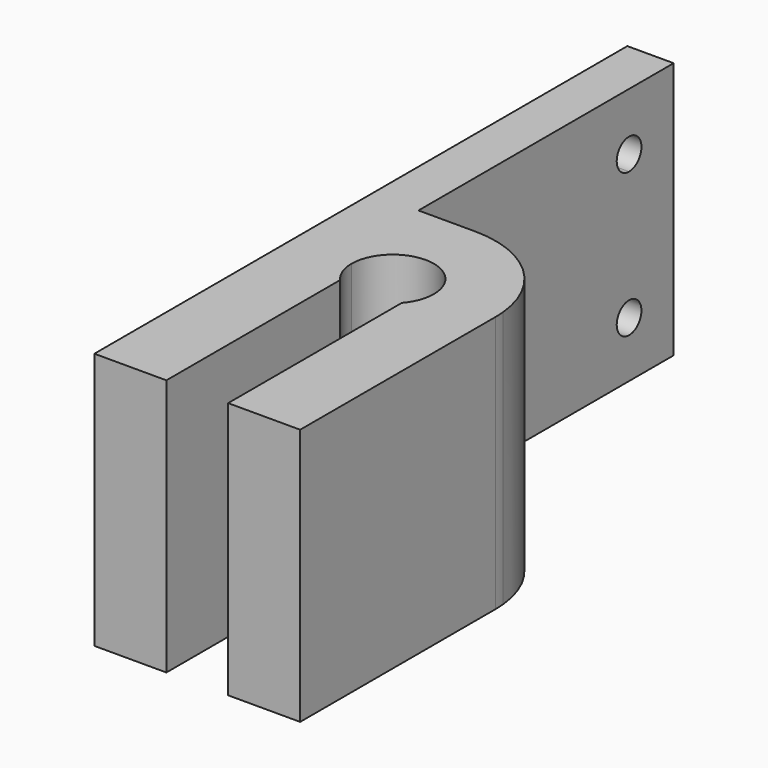
from build123d import *

# Parameters (mm, degrees)
F1_DEPTH      = 25
F3_DEPTH      = 25
F3_DEPTH_BACK = 25


with BuildPart() as f1:
    # F0 (on Top) → F1 (new body)
    with BuildSketch(Plane.XY):
        with BuildLine():
            Line((3.69989, 0), (3.69989, -23.748155))
            Line((3.69989, -23.748155), (10.309355, -23.748155))
            Line((10.309355, -23.748155), (10.69989, -23.748155))
            Line((10.69989, -23.748155), (10.69989, -2.645751))
            ThreePointArc((10.69989, -2.645751), (9.958232, -1.414214), (9.69989, 0))
            Line((9.69989, 0), (3.69989, 0))
        make_face()
        with BuildLine():
            ThreePointArc((3.74811, 0.980861), (3.711952, 0.491023), (3.69989, 0))
            Line((3.69989, 0), (9.69989, 0))
            ThreePointArc((9.69989, 0), (13.69989, 4), (17.69989, 0))
            Line((17.69989, 0), (23.69989, 0))
            ThreePointArc((23.69989, 0), (23.687827, 0.491023), (23.651669, 0.980861))
            ThreePointArc((23.651669, 0.980861), (20.450878, 7.377273), (13.796338, 9.999535))
            Line((13.796338, 9.999535), (13.603441, 9.999535))
            Line((13.603441, 9.999535), (8.19989, 9.999535))
            Line((8.19989, 9.999535), (8.19989, 40.999535))
            Line((8.19989, 40.999535), (3.69989, 40.999535))
            Line((3.69989, 40.999535), (3.69989, 23.748155))
            Line((3.69989, 23.748155), (3.69989, 9.999535))
            Line((3.69989, 9.999535), (3.69989, 0.980861))
            Line((3.69989, 0.980861), (3.74811, 0.980861))
        make_face()
        with BuildLine():
            Line((3.69989, 0.980861), (3.69989, 0))
            ThreePointArc((3.69989, 0), (3.711952, 0.491023), (3.74811, 0.980861))
            Line((3.74811, 0.980861), (3.69989, 0.980861))
        make_face()
        with BuildLine():
            Line((23.69989, 0), (17.69989, 0))
            ThreePointArc((17.69989, 0), (17.441547, -1.414214), (16.69989, -2.645751))
            Line((16.69989, -2.645751), (16.69989, -23.748155))
            Line((16.69989, -23.748155), (23.69989, -23.748155))
            Line((23.69989, -23.748155), (23.69989, 0))
        make_face()
        with BuildLine():
            Line((13.603441, 9.999535), (13.796338, 9.999535))
            ThreePointArc((13.796338, 9.999535), (13.69989, 10), (13.603441, 9.999535))
        make_face()
    extrude(amount=F1_DEPTH)

    # F2 (on face) → F3 (cut, two sides)
    with BuildSketch(Plane(origin=(3.69989, 0, 0), x_dir=(0, -1, 0), z_dir=(-1, 0, 0))) as f3_sk:
        with BuildLine():
            Line((-15.599724, 5.426402), (-17.099724, 5.426402))
            ThreePointArc((-17.099724, 5.426402), (-15.599724, 3.926402), (-14.099724, 5.426402))
            ThreePointArc((-14.099724, 5.426402), (-14.539063, 6.487062), (-15.599724, 6.926402))
            Line((-15.599724, 6.926402), (-15.599724, 5.426402))
        make_face()
        with BuildLine():
            Line((-34.08602, 5.426402), (-35.58602, 5.426402))
            Line((-35.58602, 5.426402), (-35.58602, 6.926402))
            ThreePointArc((-35.58602, 6.926402), (-36.64668, 4.365742), (-34.08602, 5.426402))
        make_face()
        with BuildLine():
            Line((-15.599724, 19.423114), (-15.599724, 17.923114))
            ThreePointArc((-15.599724, 17.923114), (-14.539063, 18.362454), (-14.099724, 19.423114))
            ThreePointArc((-14.099724, 19.423114), (-15.599724, 20.923114), (-17.099724, 19.423114))
            Line((-17.099724, 19.423114), (-15.599724, 19.423114))
        make_face()
        with BuildLine():
            ThreePointArc((-17.099724, 19.423114), (-16.660384, 18.362454), (-15.599724, 17.923114))
            Line((-15.599724, 17.923114), (-15.599724, 19.423114))
            Line((-15.599724, 19.423114), (-17.099724, 19.423114))
        make_face()
        with BuildLine():
            Line((-35.58602, 19.423114), (-35.58602, 17.923114))
            ThreePointArc((-35.58602, 17.923114), (-34.52536, 18.362454), (-34.08602, 19.423114))
            Line((-34.08602, 19.423114), (-35.58602, 19.423114))
        make_face()
        with BuildLine():
            ThreePointArc((-34.08602, 19.423114), (-36.64668, 20.483774), (-35.58602, 17.923114))
            Line((-35.58602, 17.923114), (-35.58602, 19.423114))
            Line((-35.58602, 19.423114), (-34.08602, 19.423114))
        make_face()
        with BuildLine():
            Line((-35.58602, 6.926402), (-35.58602, 5.426402))
            Line((-35.58602, 5.426402), (-34.08602, 5.426402))
            ThreePointArc((-34.08602, 5.426402), (-34.52536, 6.487062), (-35.58602, 6.926402))
        make_face()
        with BuildLine():
            ThreePointArc((-15.599724, 6.926402), (-16.660384, 6.487062), (-17.099724, 5.426402))
            Line((-17.099724, 5.426402), (-15.599724, 5.426402))
            Line((-15.599724, 5.426402), (-15.599724, 6.926402))
        make_face()
    extrude(amount=F3_DEPTH, mode=Mode.SUBTRACT)
    extrude(f3_sk.sketch, amount=-F3_DEPTH_BACK, mode=Mode.SUBTRACT)


solid = f1.part
